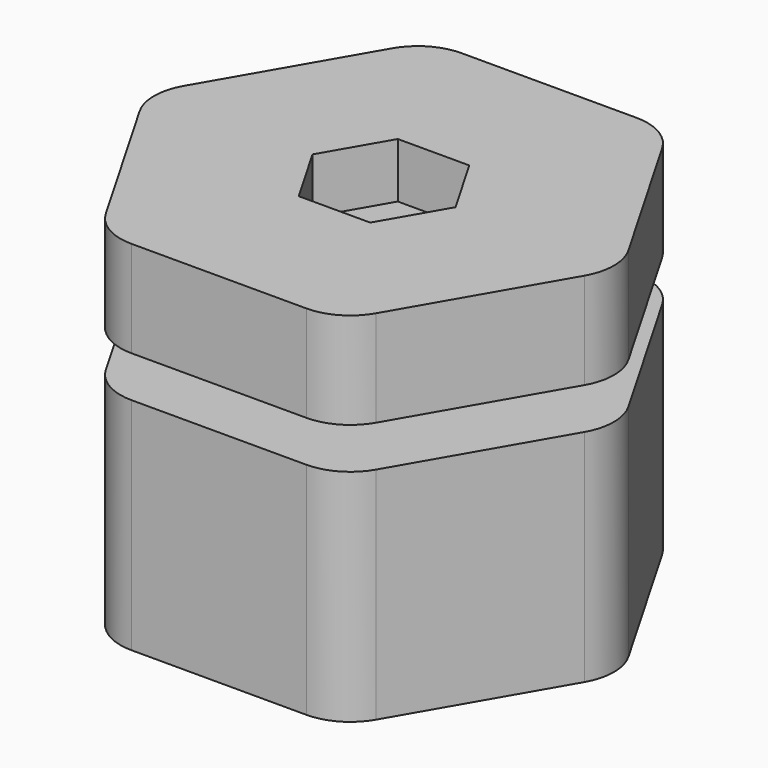
from build123d import *

# Parameters (mm, degrees)
F0_R      = 4.25
F0_R_2    = 3.75
F1_DEPTH  = 8
F2_DEPTH  = 6
F3_R      = 2.5
F4_DEPTH  = 3.5
F5_R      = 2.5
F6_DEPTH  = 3.5
F7_R      = 1.125
F8_DEPTH  = 2
F9_R      = 2
F9_2_R    = 2
F10_R     = 1.875
F11_DEPTH = 3
F12_DEPTH = 13.001


with BuildPart() as f1:
    # F0 (on Top) → F1 (new body)
    with BuildSketch(Plane.XY):
        Polygon((4.3301270189, 7.5), (-4.3301270189, 7.5), (-8.6602540378, 0), (-4.3301270189, -7.5), (4.3301270189, -7.5), (8.6602540378, 0), align=None)
        Circle(F0_R, mode=Mode.SUBTRACT)
        Circle(F0_R)
        Circle(F0_R_2, mode=Mode.SUBTRACT)
    extrude(amount=F1_DEPTH)

    # F0 (on Top) → F2 (cut)
    with BuildSketch(Plane.XY):
        Circle(F0_R)
        Circle(F0_R_2, mode=Mode.SUBTRACT)
    extrude(amount=F2_DEPTH, mode=Mode.SUBTRACT)

    # F9
    f9_edges = [f1.edges().sort_by_distance(p)[0] for p in [
        (-8.660254, 0, 4),
        (-4.330127, 7.5, 4),
        (-4.330127, -7.5, 4),
        (4.330127, -7.5, 4),
        (8.660254, 0, 4),
        (4.330127, 7.5, 4),
    ]]
    fillet(f9_edges, radius=F9_R)


with BuildPart() as f4:
    # F3 (on face) → F4 (new body)
    with BuildSketch(Plane(origin=(0, 0, 6), x_dir=(1, 0, 0), z_dir=(0, 0, -1))):
        Circle(F3_R)
    extrude(amount=-F4_DEPTH)

    # F5 (on face) → F6 (join)
    with BuildSketch(Plane.XY.offset(9.5)):
        Polygon((4.3301270189, 7.5), (-4.3301270189, 7.5), (-8.6602540378, 0), (-4.3301270189, -7.5), (4.3301270189, -7.5), (8.6602540378, 0), align=None)
        Circle(F5_R, mode=Mode.SUBTRACT)
        Circle(F5_R)
    extrude(amount=F6_DEPTH)

    # F7 (on face) → F8 (cut)
    with BuildSketch(Plane.XY.offset(13)):
        Polygon((1.2990381057, 2.25), (-1.2990381057, 2.25), (-2.5980762114, 0), (-1.2990381057, -2.25), (1.2990381057, -2.25), (2.5980762114, 0), align=None)
        Circle(F7_R, mode=Mode.SUBTRACT)
    extrude(amount=-F8_DEPTH, mode=Mode.SUBTRACT)

    # F9#2
    f9_2_edges = [f4.edges().sort_by_distance(p)[0] for p in [
        (-8.660254, 0, 11.25),
        (-4.330127, 7.5, 11.25),
        (-4.330127, -7.5, 11.25),
        (4.330127, 7.5, 11.25),
        (8.660254, 0, 11.25),
        (4.330127, -7.5, 11.25),
    ]]
    fillet(f9_2_edges, radius=F9_2_R)

    # F10 (on face) → F11 (join)
    with BuildSketch(Plane(origin=(0, 0, 6), x_dir=(1, 0, 0), z_dir=(0, 0, -1))):
        Circle(F10_R)
    extrude(amount=F11_DEPTH)

    # F7 (on face) → F12 (cut, through all)
    with BuildSketch(Plane.XY.offset(13)):
        Circle(F7_R)
    extrude(amount=-F12_DEPTH, mode=Mode.SUBTRACT)


solid = Compound([f1.part, f4.part])
